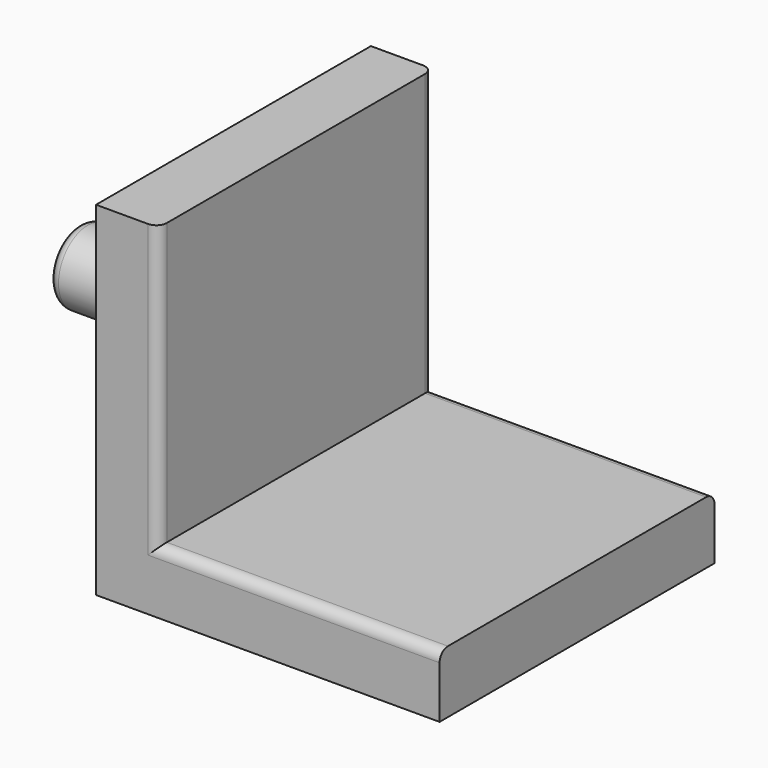
from build123d import *

# Parameters (mm, degrees)
F0_W     = 3
F0_H     = 13.5
F1_DEPTH = 16.5
F2_R     = 1.25
F3_DEPTH = 4
F4_R     = 1.75
F5_DEPTH = 7.5
F6_R     = 0.5
F7_R     = 0.5
F8_R     = 0.5


with BuildPart() as f1:
    # F0 (on Front) → F1 (new body)
    with BuildSketch(Plane.XZ):
        with Locations((1.5, 9.75)):
            Rectangle(F0_W, F0_H)
        Polygon((3, 3), (0, 3), (0, 0), (16.5, 0), (16.5, 3), align=None)
        with Locations((1.5, 9.75)):
            Rectangle(F0_W, F0_H)
        Polygon((3, 3), (0, 3), (0, 0), (16.5, 0), (16.5, 3), align=None)
    extrude(amount=F1_DEPTH)

    # F2 (on face) → F3 (join)
    with BuildSketch(Plane(origin=(0, 0, 0), x_dir=(1, 0, 0), z_dir=(0, 0, -1))):
        with Locations((8.25, 8.25)):
            Circle(F2_R)
    extrude(amount=F3_DEPTH)

    # F4 (on face) → F5 (join)
    with BuildSketch(Plane(origin=(0, 0, 0), x_dir=(0, -1, 0), z_dir=(-1, 0, 0))):
        with Locations((8.25, 8.25)):
            Circle(F4_R)
    extrude(amount=F5_DEPTH)

    # F6
    f6_edges = [f1.edges().sort_by_distance(p)[0] for p in [
        (7, -8.25, -4),
    ]]
    fillet(f6_edges, radius=F6_R)

    # F7
    f7_edges = [f1.edges().sort_by_distance(p)[0] for p in [
        (-7.5, -6.5, 8.25),
    ]]
    fillet(f7_edges, radius=F7_R)

    # F8
    f8_edges = [f1.edges().sort_by_distance(p)[0] for p in [
        (3, 0, 9.75),
        (3, -16.5, 9.75),
        (9.75, -16.5, 3),
        (9.75, 0, 3),
    ]]
    fillet(f8_edges, radius=F8_R)


solid = f1.part
